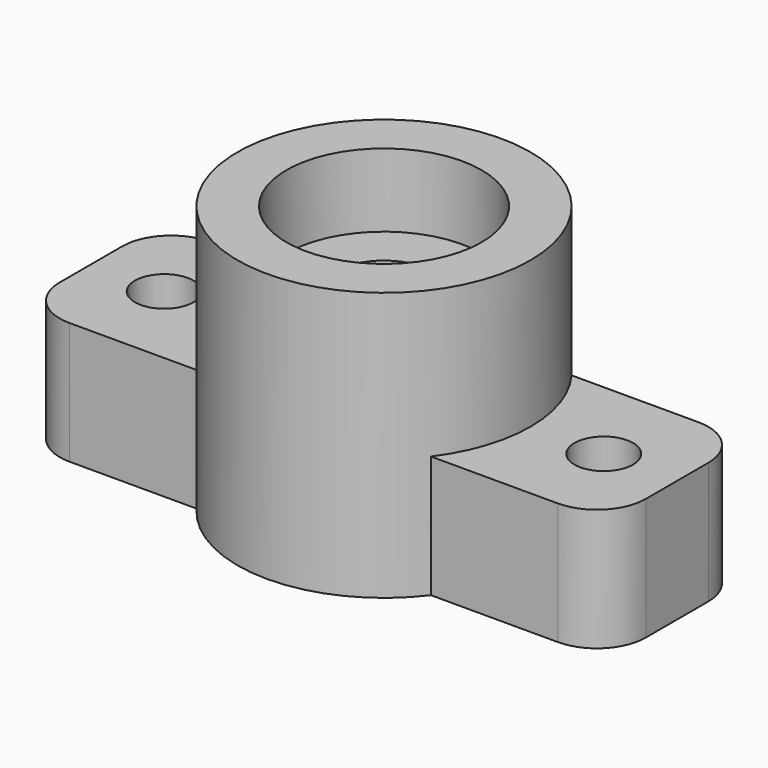
from build123d import *

# Parameters (mm, degrees)
F0_R     = 300
F1_DEPTH = 550
F2_R     = 200
F3_DEPTH = 150
F5_R     = 60
F6_DEPTH = 250
F4_R     = 100
F7_DEPTH = 400.001


with BuildPart() as f1:
    # F0 (on Top) → F1 (new body)
    with BuildSketch(Plane.XY):
        Circle(F0_R)
    extrude(amount=F1_DEPTH)

    # F2 (on face) → F3 (cut)
    with BuildSketch(Plane.XY.offset(550)):
        Circle(F2_R)
    extrude(amount=-F3_DEPTH, mode=Mode.SUBTRACT)

    # F5 (on face) → F6 (join)
    with BuildSketch(Plane(origin=(0, 0, 0), x_dir=(1, 0, 0), z_dir=(0, 0, -1))):
        with BuildLine():
            ThreePointArc((600, 80), (570.710678, 150.710678), (500, 180))
            Line((500, 180), (-500, 180))
            ThreePointArc((-500, 180), (-570.710678, 150.710678), (-600, 80))
            Line((-600, 80), (-600, -80))
            ThreePointArc((-600, -80), (-570.710678, -150.710678), (-500, -180))
            Line((-500, -180), (500, -180))
            ThreePointArc((500, -180), (570.710678, -150.710678), (600, -80))
            Line((600, -80), (600, 80))
        make_face()
        with Locations((-450, 0)):
            Circle(F5_R, mode=Mode.SUBTRACT)
        with Locations((450, 0)):
            Circle(F5_R, mode=Mode.SUBTRACT)
    extrude(amount=-F6_DEPTH)

    # F4 (on face) → F7 (cut, through all)
    with BuildSketch(Plane.XY.offset(400)):
        Circle(F4_R)
    extrude(amount=-F7_DEPTH, mode=Mode.SUBTRACT)


solid = f1.part
